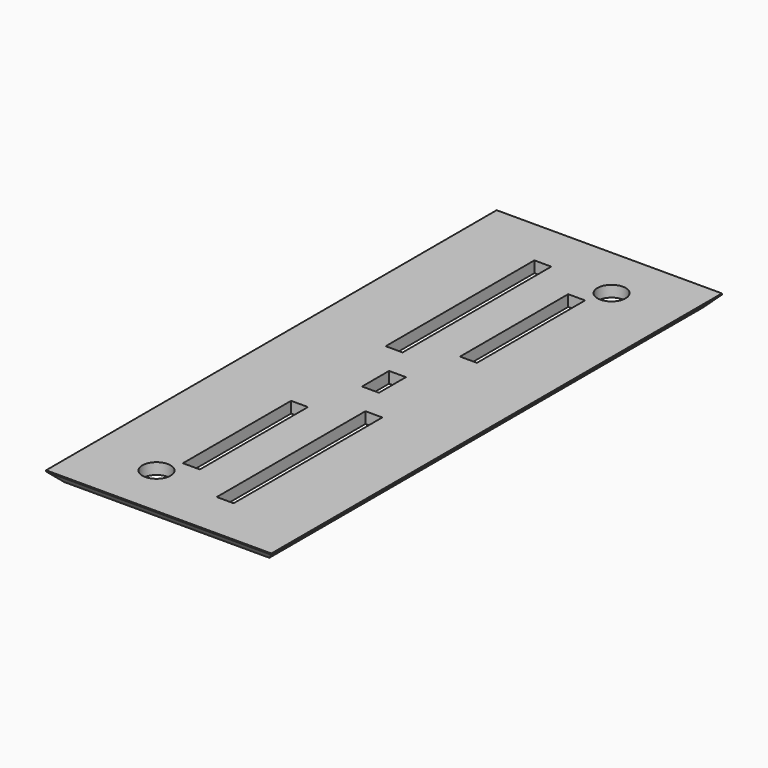
from build123d import *

# Parameters (mm, degrees)
SKETCH_W     = 40
SKETCH_H     = 100
SKETCH_R     = 2.5
SKETCH_W_2   = 3
SKETCH_H_2   = 33
SKETCH_H_3   = 24
SKETCH_H_4   = 6
PAD_DEPTH    = 2
CHAMFER_SIZE = 1.8


with BuildPart() as part:
    # Sketch → Pad (new body)
    with BuildSketch(Plane.XY):
        Rectangle(SKETCH_W, SKETCH_H)
        with Locations((-8, -40.5)):
            Circle(SKETCH_R, mode=Mode.SUBTRACT)
        with Locations((8, 40.5)):
            Circle(SKETCH_R, mode=Mode.SUBTRACT)
        with Locations((-5, 25)):
            Rectangle(SKETCH_W_2, SKETCH_H_2, mode=Mode.SUBTRACT)
        with Locations((5, -25)):
            Rectangle(SKETCH_W_2, SKETCH_H_2, mode=Mode.SUBTRACT)
        with Locations((5, 24.5)):
            Rectangle(SKETCH_W_2, SKETCH_H_3, mode=Mode.SUBTRACT)
        with Locations((-5, -24.5)):
            Rectangle(SKETCH_W_2, SKETCH_H_3, mode=Mode.SUBTRACT)
        Rectangle(SKETCH_W_2, SKETCH_H_4, mode=Mode.SUBTRACT)
    extrude(amount=PAD_DEPTH)

    # Chamfer
    chamfer_edges = [part.edges().sort_by_distance(p)[0] for p in [
        (0, -50, 0),
        (20, 0, 0),
        (0, 50, 0),
        (-20, 0, 0),
    ]]
    chamfer(chamfer_edges, length=CHAMFER_SIZE)


solid = part.part
